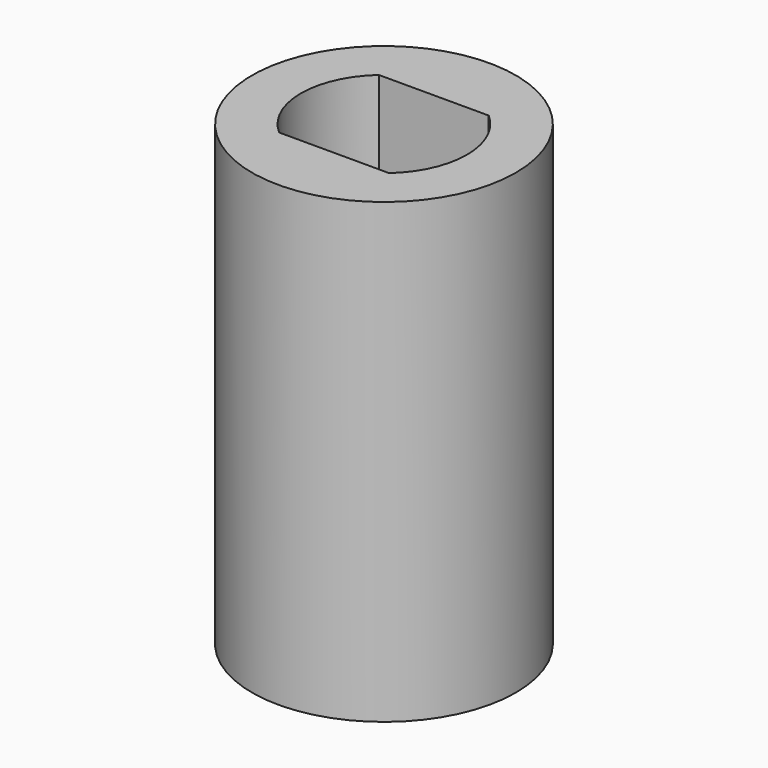
from build123d import *

# Parameters (mm, degrees)
F0_R          = 4.7625
F1_DEPTH      = 9.525
F1_DEPTH_BACK = 7
F4_DEPTH      = 9.526
F3_R          = 2.5
F5_DEPTH      = 7.001
F6_DEPTH      = 1.27


with BuildPart() as f1:
    # F0 (on Top) → F1 (new body, two sides)
    with BuildSketch(Plane.XY) as f1_sk:
        Circle(F0_R)
    extrude(amount=F1_DEPTH)
    extrude(f1_sk.sketch, amount=-F1_DEPTH_BACK)

    # F2 (on Top) → F4 (cut, through all)
    with BuildSketch(Plane.XY):
        with BuildLine():
            ThreePointArc((1.984313, -2.25), (2.734313, -1.234313), (3, 0))
            ThreePointArc((3, 0), (2.734313, 1.234313), (1.984313, 2.25))
            Line((1.984313, 2.25), (-1.984313, 2.25))
            ThreePointArc((-1.984313, 2.25), (-3, 0), (-1.984313, -2.25))
            Line((-1.984313, -2.25), (1.984313, -2.25))
        make_face()
    extrude(amount=F4_DEPTH, mode=Mode.SUBTRACT)

    # F3 (on Top) → F5 (cut, through all)
    with BuildSketch(Plane.XY):
        Circle(F3_R)
    extrude(amount=-F5_DEPTH, mode=Mode.SUBTRACT)

    # F0 (on Top) → F6 (join)
    with BuildSketch(Plane.XY):
        Circle(F0_R)
    extrude(amount=F6_DEPTH)


solid = f1.part
